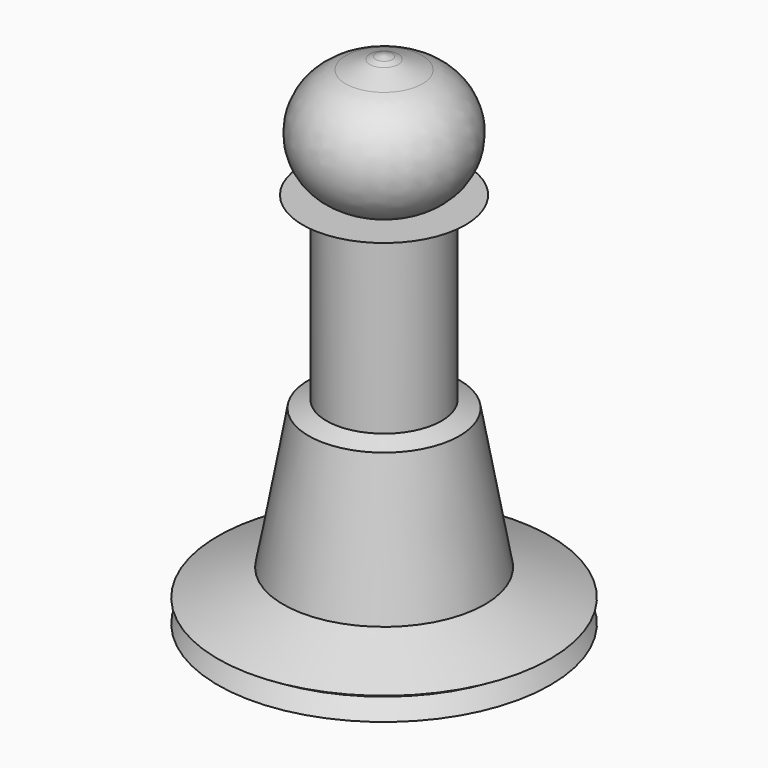
from build123d import *


with BuildPart() as f1:
    # F0 (on Front) → F1 (revolve)
    with BuildSketch(Plane.XZ):
        with BuildLine():
            Line((0, 6.05019), (0, -3.947882))
            Line((0, -3.947882), (3.716181, -3.947882))
            ThreePointArc((3.716181, -3.947882), (7.190054, 1.165311), (3.500518, 6.125136))
            ThreePointArc((3.500518, 6.125136), (1.743933, 6.383117), (0, 6.05019))
        make_face()
        with BuildLine():
            Line((0, 7.386977), (0, 6.05019))
            ThreePointArc((0, 6.05019), (1.743933, 6.383117), (3.500518, 6.125136))
            Line((3.500518, 6.125136), (1.295953, 6.96873))
            Line((1.295953, 6.96873), (0.754691, 7.190155))
            Line((0.754691, 7.190155), (0, 7.386977))
        make_face()
        Polygon((0, -3.947882), (0, -38.444884), (15.19193, -38.444884), (14.261813, -36.894687), (15.19193, -36.336617), (9.208308, -33.906154), (6.895934, -21.091748), (5.258002, -20.417307), (5.258002, -5.001479), (7.432362, -3.947882), (3.716181, -3.947882), align=None)
    revolve(axis=Axis((0, 0, -21.196383), (0, 0, -1)))


solid = f1.part
